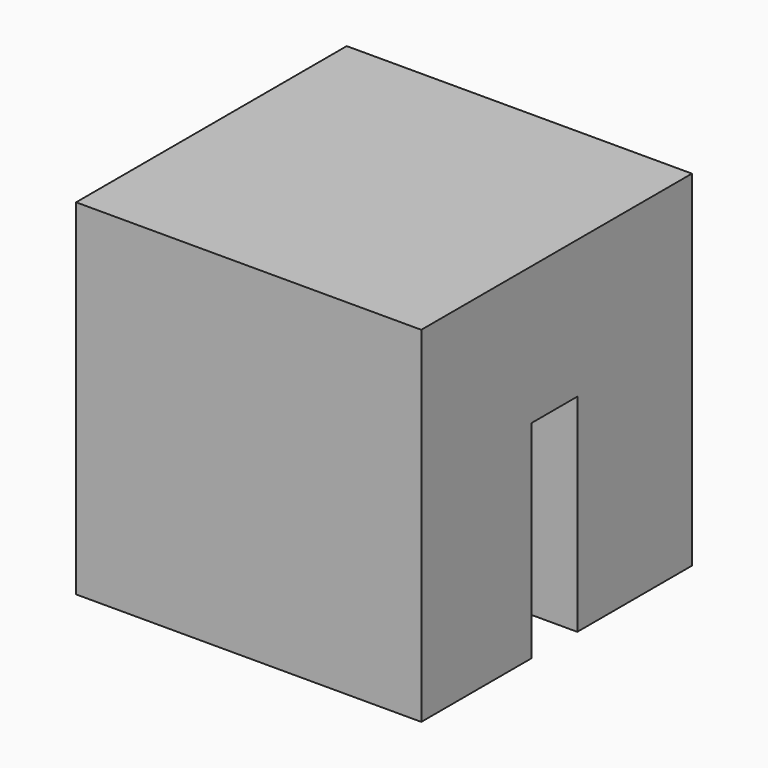
from build123d import *

# Parameters (mm, degrees)
F0_W     = 10
F0_H     = 4.15
F1_DEPTH = 10
F2_DEPTH = 6


with BuildPart() as f1:
    # F0 (on Top) → F1 (new body)
    with BuildSketch(Plane.XY):
        with Locations((0, 3.725)):
            Rectangle(F0_W, F0_H)
        Polygon((5, 1.65), (-5, 1.65), (-5, 0.9), (-4, 0.9), (-4, 0), (-3, 0), (-3, 0.9), (-2, 0.9), (-2, 0), (-1, 0), (-1, 0.9), (0, 0.9), (0, 0), (1, 0), (1, 0.9), (2, 0.9), (2, 0), (3, 0), (3, 0.9), (4, 0.9), (4, 0), (5, 0), align=None)
        Polygon((-4, 0.9), (-5, 0.9), (-5, -4), (5, -4), (5, 0), (4, 0), (4, 0.9), (3, 0.9), (3, 0), (2, 0), (2, 0.9), (1, 0.9), (1, 0), (0, 0), (0, 0.9), (-1, 0.9), (-1, 0), (-2, 0), (-2, 0.9), (-3, 0.9), (-3, 0), (-4, 0), align=None)
    extrude(amount=F1_DEPTH)

    # F0 (on Top) → F2 (cut)
    with BuildSketch(Plane.XY):
        Polygon((5, 1.65), (-5, 1.65), (-5, 0.9), (-4, 0.9), (-4, 0), (-3, 0), (-3, 0.9), (-2, 0.9), (-2, 0), (-1, 0), (-1, 0.9), (0, 0.9), (0, 0), (1, 0), (1, 0.9), (2, 0.9), (2, 0), (3, 0), (3, 0.9), (4, 0.9), (4, 0), (5, 0), align=None)
    extrude(amount=F2_DEPTH, mode=Mode.SUBTRACT)


solid = f1.part
